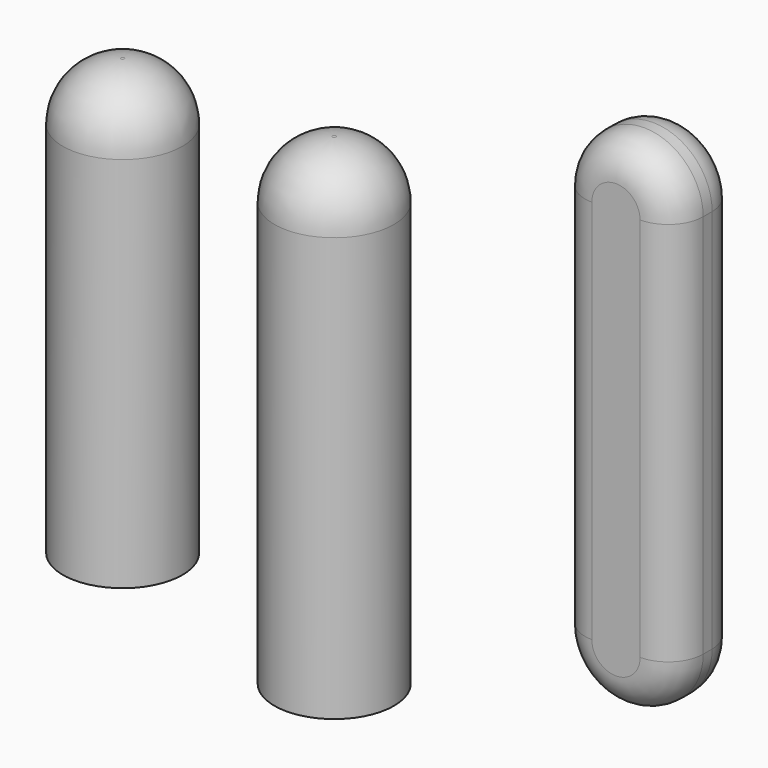
from build123d import *

# Parameters (mm, degrees)
F1_DEPTH = 7.112
F2_R     = 3.066051
F3_R     = 5.232497
F4_DEPTH = 42.164
F5_R     = 5.08
F6_T     = -0.254
F7_DEPTH = 38.1
F8_R     = 5.08
F9_T     = -0.254


with BuildPart() as f1:
    # F0 (on Front) → F1 (new body)
    with BuildSketch(Plane.XZ):
        with BuildLine():
            Line((-5.461434, 8.480641), (-5.461434, -6.32129))
            ThreePointArc((-5.461434, -6.32129), (-0.28081, -1.140666), (4.899814, -6.32129))
            Line((4.899814, -6.32129), (4.899814, 0.661517))
            Line((4.899814, 0.661517), (4.899814, 8.480641))
            ThreePointArc((4.899814, 8.480641), (-0.28081, 13.661265), (-5.461434, 8.480641))
        make_face()
        with BuildLine():
            ThreePointArc((4.899814, -6.32129), (-0.28081, -1.140666), (-5.461434, -6.32129))
            Line((-5.461434, -6.32129), (4.899814, -6.32129))
        make_face()
        with BuildLine():
            Line((4.899814, -6.32129), (-5.461434, -6.32129))
            ThreePointArc((-5.461434, -6.32129), (-0.28081, -11.501914), (4.899814, -6.32129))
        make_face()
        with BuildLine():
            Line((-5.461434, -6.32129), (-5.461434, -25.218987))
            ThreePointArc((-5.461434, -25.218987), (-0.28081, -30.399612), (4.899814, -25.218987))
            Line((4.899814, -25.218987), (4.899814, -6.32129))
            ThreePointArc((4.899814, -6.32129), (-0.28081, -11.501914), (-5.461434, -6.32129))
        make_face()
    extrude(amount=F1_DEPTH)

    # F2
    f2_edges = [f1.edges().sort_by_distance(p)[0] for p in [
        (4.899814, -7.112, -8.369173),
        (4.899814, 0, -8.369173),
        (-5.461434, 0, -8.369173),
    ]]
    fillet(f2_edges, radius=F2_R)


with BuildPart() as f4:
    # F3 (on Top) → F4 (new body)
    with BuildSketch(Plane.XY):
        with Locations((-32.386214, 2.198541)):
            Circle(F3_R)
    extrude(amount=-F4_DEPTH)

    # F5
    f5_edges = [f4.edges().sort_by_distance(p)[0] for p in [
        (-37.618711, 2.198541, 0),
    ]]
    fillet(f5_edges, radius=F5_R)

    # F6
    f6_openings = [f4.faces().sort_by_distance(p)[0] for p in [
        (-32.386214, 2.198541, -42.164),
    ]]
    offset(amount=F6_T, openings=f6_openings)


with BuildPart() as f7:
    # F3 (on Top) → F7 (new body)
    with BuildSketch(Plane.XY):
        with Locations((-50.901392, 2.198541)):
            Circle(F3_R)
    extrude(amount=-F7_DEPTH)

    # F8
    f8_edges = [f7.edges().sort_by_distance(p)[0] for p in [
        (-56.13389, 2.198541, 0),
    ]]
    fillet(f8_edges, radius=F8_R)

    # F9
    f9_openings = [f7.faces().sort_by_distance(p)[0] for p in [
        (-50.901392, 2.198541, -38.1),
    ]]
    offset(amount=F9_T, openings=f9_openings)


solid = Compound([f1.part, f4.part, f7.part])
